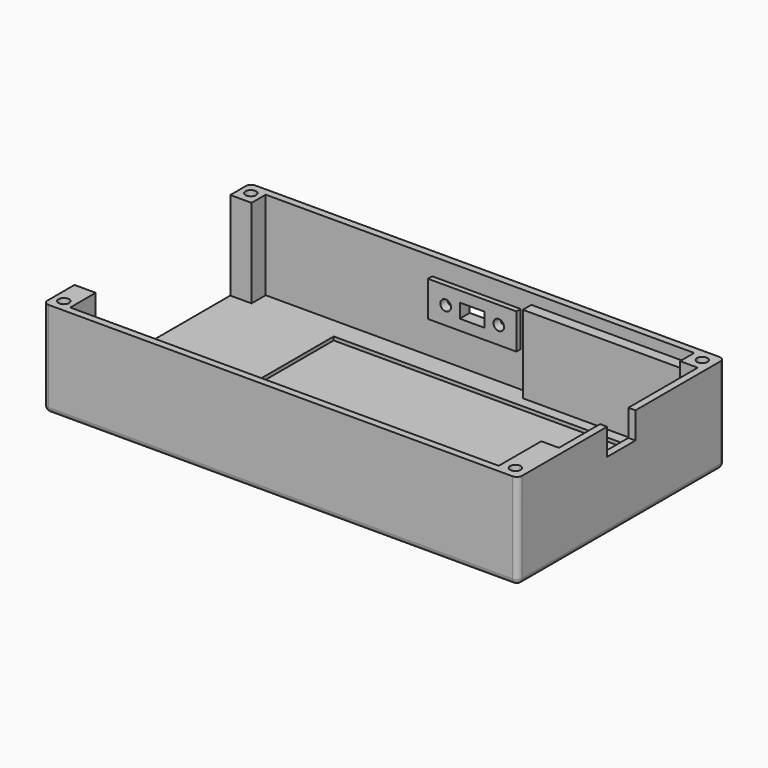
from build123d import *

# Parameters (mm, degrees)
BOX_W             = 134
BOX_H             = 73
BOX_DEPTH         = 27
BOX001_W          = 126
BOX001_H          = 69
BOX001_DEPTH      = 25
BOX002_W          = 10
BOX002_H          = 55
BOX002_DEPTH      = 25
BOX003_W          = 100
BOX003_H          = 30
BOX003_DEPTH      = 1
CYLINDER_R        = 1
CYLINDER_DEPTH    = 5
CYLINDER001_R     = 1
CYLINDER001_DEPTH = 5
BOX004_W          = 25
BOX004_H          = 1.5
BOX004_DEPTH      = 10
BOX005_W          = 7
BOX005_H          = 4
BOX005_DEPTH      = 7
CYLINDER002_R     = 1.5
CYLINDER002_DEPTH = 2.5
CYLINDER003_R     = 1.5
CYLINDER003_DEPTH = 2.5
BOX006_W          = 45
BOX006_H          = 22
BOX006_DEPTH      = 3
BOX007_W          = 7.5
BOX007_H          = 10
BOX007_DEPTH      = 2
BOX008_W          = 15
BOX008_H          = 5
BOX008_DEPTH      = 25
BOX009_W          = 5
BOX009_H          = 5
BOX009_DEPTH      = 10
CYLINDER004_R     = 1.5
CYLINDER004_DEPTH = 5
CYLINDER005_R     = 1.5
CYLINDER005_DEPTH = 5
CYLINDER006_R     = 1.5
CYLINDER006_DEPTH = 5
CYLINDER007_R     = 1.5
CYLINDER007_DEPTH = 5
FILLET_R          = 1.5
FILLET001_R       = 1.5
FILLET002_R       = 1.5
FILLET003_R       = 1.5


with BuildPart() as part:
    # Box → Box (join)
    with BuildSketch(Plane.XY):
        with Locations((67, 36.5)):
            Rectangle(BOX_W, BOX_H)
    extrude(amount=BOX_DEPTH)

    # Box001 → Box001 (cut)
    with BuildSketch(Plane(origin=(6, 2, 2), x_dir=(1, 0, 0), z_dir=(0, 0, 1))):
        with Locations((63, 34.5)):
            Rectangle(BOX001_W, BOX001_H)
    extrude(amount=BOX001_DEPTH, mode=Mode.SUBTRACT)

    # Box002 → Box002 (cut)
    with BuildSketch(Plane(origin=(-2, 11, 2), x_dir=(1, 0, 0), z_dir=(0, 0, 1))):
        with Locations((5, 27.5)):
            Rectangle(BOX002_W, BOX002_H)
    extrude(amount=BOX002_DEPTH, mode=Mode.SUBTRACT)

    # Box003 → Box003 (cut)
    with BuildSketch(Plane(origin=(30, 35, 1), x_dir=(1, 0, 0), z_dir=(0, 0, 1))):
        with Locations((50, 15)):
            Rectangle(BOX003_W, BOX003_H)
    extrude(amount=BOX003_DEPTH, mode=Mode.SUBTRACT)

    # Cylinder → Cylinder (join)
    with BuildSketch(Plane(origin=(128, 37, 1), x_dir=(1, 0, 0), z_dir=(0, 0, 1))):
        Circle(CYLINDER_R)
    extrude(amount=CYLINDER_DEPTH)

    # Cylinder001 → Cylinder001 (join)
    with BuildSketch(Plane(origin=(128, 63, 1), x_dir=(1, 0, 0), z_dir=(0, 0, 1))):
        Circle(CYLINDER001_R)
    extrude(amount=CYLINDER001_DEPTH)

    # Box004 → Box004 (join)
    with BuildSketch(Plane(origin=(53, 69.5, 12), x_dir=(1, 0, 0), z_dir=(0, 0, 1))):
        with Locations((12.5, 0.75)):
            Rectangle(BOX004_W, BOX004_H)
    extrude(amount=BOX004_DEPTH)

    # Box005 → Box005 (cut)
    with BuildSketch(Plane(origin=(62, 74.5, 15), x_dir=(1, 0, 0), z_dir=(0, -1, 0))):
        with Locations((3.5, 2)):
            Rectangle(BOX005_W, BOX005_H)
    extrude(amount=BOX005_DEPTH, mode=Mode.SUBTRACT)

    # Cylinder002 → Cylinder002 (cut)
    with BuildSketch(Plane(origin=(58, 72, 17), x_dir=(1, 0, 0), z_dir=(0, -1, 0))):
        Circle(CYLINDER002_R)
    extrude(amount=CYLINDER002_DEPTH, mode=Mode.SUBTRACT)

    # Cylinder003 → Cylinder003 (cut)
    with BuildSketch(Plane(origin=(73, 72, 17), x_dir=(1, 0, 0), z_dir=(0, -1, 0))):
        Circle(CYLINDER003_R)
    extrude(amount=CYLINDER003_DEPTH, mode=Mode.SUBTRACT)

    # Box006 → Box006 (join)
    with BuildSketch(Plane(origin=(81, 71, 2), x_dir=(1, 0, 0), z_dir=(0, -1, 0))):
        with Locations((22.5, 11)):
            Rectangle(BOX006_W, BOX006_H)
    extrude(amount=BOX006_DEPTH)

    # Box007 → Box007 (cut)
    with BuildSketch(Plane(origin=(134, 41.5, 27), x_dir=(0, 0, -1), z_dir=(-1, 0, 0))):
        with Locations((3.75, 5)):
            Rectangle(BOX007_W, BOX007_H)
    extrude(amount=BOX007_DEPTH, mode=Mode.SUBTRACT)

    # Box008 → Box008 (join)
    with BuildSketch(Plane(origin=(132, 2, 2), x_dir=(0, 1, 0), z_dir=(0, 0, 1))):
        with Locations((7.5, 2.5)):
            Rectangle(BOX008_W, BOX008_H)
    extrude(amount=BOX008_DEPTH)

    # Box009 → Box009 (join)
    with BuildSketch(Plane(origin=(132, 66, 17), x_dir=(0, 1, 0), z_dir=(0, 0, 1))):
        with Locations((2.5, 2.5)):
            Rectangle(BOX009_W, BOX009_H)
    extrude(amount=BOX009_DEPTH)

    # Cylinder004 → Cylinder004 (cut)
    with BuildSketch(Plane(origin=(130.5, 69.5, 22), x_dir=(0, 1, 0), z_dir=(0, 0, 1))):
        Circle(CYLINDER004_R)
    extrude(amount=CYLINDER004_DEPTH, mode=Mode.SUBTRACT)

    # Cylinder005 → Cylinder005 (cut)
    with BuildSketch(Plane(origin=(130.5, 3.5, 22), x_dir=(0, 1, 0), z_dir=(0, 0, 1))):
        Circle(CYLINDER005_R)
    extrude(amount=CYLINDER005_DEPTH, mode=Mode.SUBTRACT)

    # Cylinder006 → Cylinder006 (cut)
    with BuildSketch(Plane(origin=(3, 3.5, 22), x_dir=(0, 1, 0), z_dir=(0, 0, 1))):
        Circle(CYLINDER006_R)
    extrude(amount=CYLINDER006_DEPTH, mode=Mode.SUBTRACT)

    # Cylinder007 → Cylinder007 (cut)
    with BuildSketch(Plane(origin=(3, 69.5, 22), x_dir=(0, 1, 0), z_dir=(0, 0, 1))):
        Circle(CYLINDER007_R)
    extrude(amount=CYLINDER007_DEPTH, mode=Mode.SUBTRACT)

    # Fillet
    fillet_edges = [part.edges().sort_by_distance(p)[0] for p in [
        (134, 0, 13.5),
    ]]
    fillet(fillet_edges, radius=FILLET_R)

    # Fillet001
    fillet001_edges = [part.edges().sort_by_distance(p)[0] for p in [
        (134, 73, 13.5),
    ]]
    fillet(fillet001_edges, radius=FILLET001_R)

    # Fillet002
    fillet002_edges = [part.edges().sort_by_distance(p)[0] for p in [
        (134, 36.5, 0),
    ]]
    fillet(fillet002_edges, radius=FILLET002_R)

    # Fillet003
    fillet003_edges = [part.edges().sort_by_distance(p)[0] for p in [
        (0, 73, 14.25),
        (0, 36.5, 0),
        (0, 0, 14.25),
    ]]
    fillet(fillet003_edges, radius=FILLET003_R)


solid = part.part
